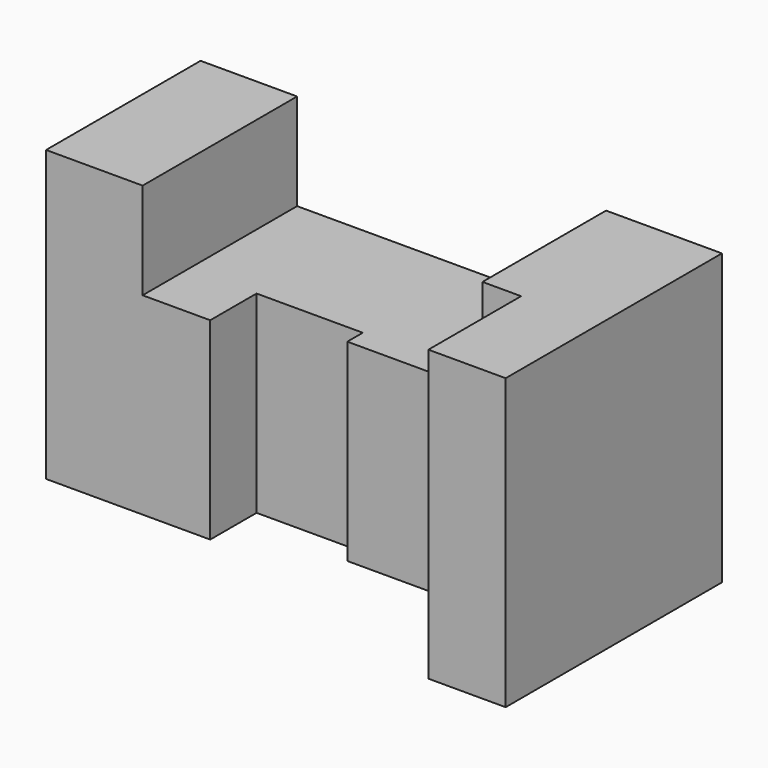
from build123d import *

# Parameters (mm, degrees)
F0_W     = 25
F0_H     = 50
F1_DEPTH = 75
F3_DEPTH = 75
F5_DEPTH = 75
F6_W     = 80
F6_H     = 25
F7_DEPTH = 75
F8_W     = 10
F8_H     = 75
F9_DEPTH = 30


with BuildPart() as f1:
    # F0 (on Top) → F1 (new body)
    with BuildSketch(Plane.XY):
        with Locations((12.5, 25)):
            Rectangle(F0_W, F0_H)
    extrude(amount=F1_DEPTH)

    # F2 (on face) → F3 (join)
    with BuildSketch(Plane.XY.offset(75)):
        Polygon((25, 50), (25, 0), (42.5, 0), (42.5, 15), (70, 15), (70, 10), (105, 10), (105, 50), align=None)
    extrude(amount=-F3_DEPTH)

    # F4 (on face) → F5 (join)
    with BuildSketch(Plane.XY.offset(75)):
        Polygon((135, 50), (105, 50), (105, 10), (105, -20), (135, -20), align=None)
    extrude(amount=-F5_DEPTH)

    # F6 (on face) → F7 (cut)
    with BuildSketch(Plane.XZ.offset(20)):
        with Locations((65, 62.5)):
            Rectangle(F6_W, F6_H)
    extrude(amount=-F7_DEPTH, mode=Mode.SUBTRACT)

    # F8 (on face) → F9 (cut)
    with BuildSketch(Plane.XZ.offset(20)):
        with Locations((110, 37.5)):
            Rectangle(F8_W, F8_H)
    extrude(amount=-F9_DEPTH, mode=Mode.SUBTRACT)


solid = f1.part
